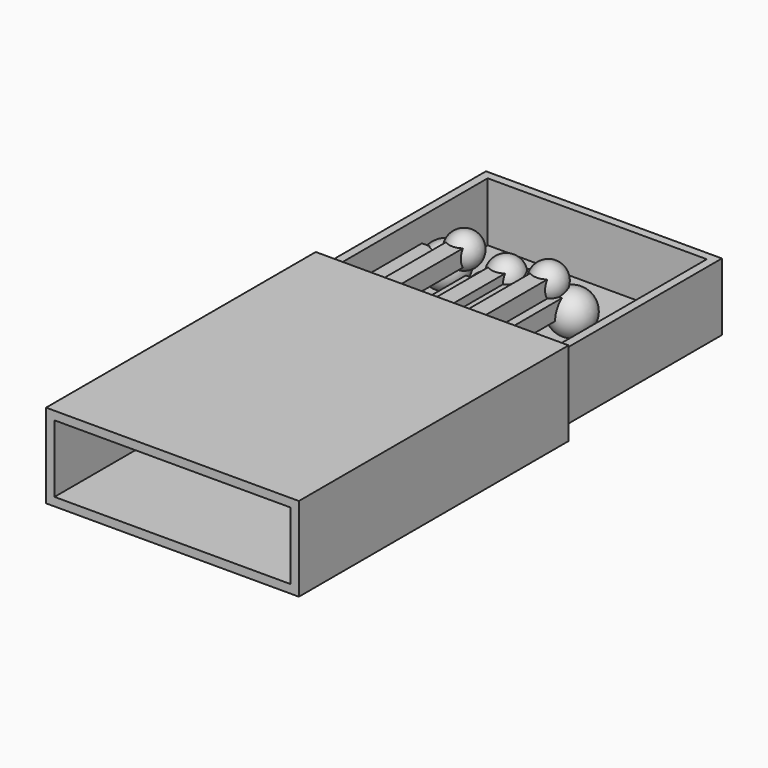
from build123d import *

# Parameters (mm, degrees)
BOX001_W     = 28
BOX001_H     = 40
BOX001_DEPTH = 8
BOX_W        = 30
BOX_H        = 40
BOX_DEPTH    = 10
BOX005_W     = 2
BOX005_H     = 25
BOX005_DEPTH = 2
BOX006_W     = 2
BOX006_H     = 25
BOX006_DEPTH = 2
BOX007_W     = 2
BOX007_H     = 25
BOX007_DEPTH = 2
BOX008_W     = 2
BOX008_H     = 25
BOX008_DEPTH = 2
BOX010_W     = 2
BOX010_H     = 25
BOX010_DEPTH = 2
BOX009_W     = 2
BOX009_H     = 25
BOX009_DEPTH = 2
BOX004_W     = 2
BOX004_H     = 25
BOX004_DEPTH = 2
BOX003_W     = 26
BOX003_H     = 38
BOX003_DEPTH = 7
BOX002_W     = 28
BOX002_H     = 40
BOX002_DEPTH = 8


with BuildPart() as box001:
    # Box001 → Box001 (new body)
    with BuildSketch(Plane(origin=(1, 1, 1), x_dir=(1, 0, 0), z_dir=(0, 0, 1))):
        with Locations((14, 20)):
            Rectangle(BOX001_W, BOX001_H)
    extrude(amount=BOX001_DEPTH)


with BuildPart() as cut:
    # Box → Box (new body)
    with BuildSketch(Plane(origin=(0, 1, 0), x_dir=(1, 0, 0), z_dir=(0, 0, 1))):
        with Locations((15, 20)):
            Rectangle(BOX_W, BOX_H)
    extrude(amount=BOX_DEPTH)

    # Cut: cut Box001
    add(box001.part, mode=Mode.SUBTRACT)


with BuildPart() as sphere001:
    # Sphere001 → Sphere001 (revolve)
    with BuildSketch(Plane(origin=(5, 54, 2), x_dir=(1, 0, 0), z_dir=(0, -1, 0))):
        with BuildLine():
            ThreePointArc((0, -2.5), (2.5, 0), (0, 2.5))
            Line((0, 2.5), (0, -2.5))
        make_face()
    revolve(axis=Axis((5, 54, 2), (0, 0, 1)))


with BuildPart() as fusion005:
    # Box005 → Box005 (new body)
    with BuildSketch(Plane(origin=(3, 28, 2), x_dir=(1, 0, 0), z_dir=(0, 0, 1))):
        with Locations((1, 12.5)):
            Rectangle(BOX005_W, BOX005_H)
    extrude(amount=BOX005_DEPTH)

    # Fusion005: union Sphere001
    add(sphere001.part)


with BuildPart() as fusion005_1:
    # Fusion005 placement: moved
    add(fusion005.part.moved(Location((6, 34, 2))))


with BuildPart() as sphere002:
    # Sphere002 → Sphere002 (revolve)
    with BuildSketch(Plane(origin=(5, 54, 2), x_dir=(1, 0, 0), z_dir=(0, -1, 0))):
        with BuildLine():
            ThreePointArc((0, -2.5), (2.5, 0), (0, 2.5))
            Line((0, 2.5), (0, -2.5))
        make_face()
    revolve(axis=Axis((5, 54, 2), (0, 0, 1)))


with BuildPart() as fusion006:
    # Box006 → Box006 (new body)
    with BuildSketch(Plane(origin=(3, 28, 2), x_dir=(1, 0, 0), z_dir=(0, 0, 1))):
        with Locations((1, 12.5)):
            Rectangle(BOX006_W, BOX006_H)
    extrude(amount=BOX006_DEPTH)

    # Fusion006: union Sphere002
    add(sphere002.part)


with BuildPart() as fusion006_1:
    # Fusion006 placement: moved
    add(fusion006.part.moved(Location((10, 35, 3))))


with BuildPart() as sphere003:
    # Sphere003 → Sphere003 (revolve)
    with BuildSketch(Plane(origin=(5, 54, 2), x_dir=(1, 0, 0), z_dir=(0, -1, 0))):
        with BuildLine():
            ThreePointArc((0, -2.5), (2.5, 0), (0, 2.5))
            Line((0, 2.5), (0, -2.5))
        make_face()
    revolve(axis=Axis((5, 54, 2), (0, 0, 1)))


with BuildPart() as fusion007:
    # Box007 → Box007 (new body)
    with BuildSketch(Plane(origin=(3, 28, 2), x_dir=(1, 0, 0), z_dir=(0, 0, 1))):
        with Locations((1, 12.5)):
            Rectangle(BOX007_W, BOX007_H)
    extrude(amount=BOX007_DEPTH)

    # Fusion007: union Sphere003
    add(sphere003.part)


with BuildPart() as fusion007_1:
    # Fusion007 placement: moved
    add(fusion007.part.moved(Location((15, 35, 3))))


with BuildPart() as sphere004:
    # Sphere004 → Sphere004 (revolve)
    with BuildSketch(Plane(origin=(4, 54, 3), x_dir=(1, 0, 0), z_dir=(0, -1, 0))):
        with BuildLine():
            ThreePointArc((0, -2), (2, 0), (0, 2))
            Line((0, 2), (0, -2))
        make_face()
    revolve(axis=Axis((4, 54, 3), (0, 0, 1)))


with BuildPart() as fusion008:
    # Box008 → Box008 (new body)
    with BuildSketch(Plane(origin=(3, 28, 2), x_dir=(1, 0, 0), z_dir=(0, 0, 1))):
        with Locations((1, 12.5)):
            Rectangle(BOX008_W, BOX008_H)
    extrude(amount=BOX008_DEPTH)

    # Fusion008: union Sphere004
    add(sphere004.part)


with BuildPart() as fusion008_1:
    # Fusion008 placement: moved
    add(fusion008.part.moved(Location((9, 34, 4))))


with BuildPart() as sphere006:
    # Sphere006 → Sphere006 (revolve)
    with BuildSketch(Plane(origin=(4, 54, 3), x_dir=(1, 0, 0), z_dir=(0, -1, 0))):
        with BuildLine():
            ThreePointArc((0, -2), (2, 0), (0, 2))
            Line((0, 2), (0, -2))
        make_face()
    revolve(axis=Axis((4, 54, 3), (0, 0, 1)))


with BuildPart() as fusion010:
    # Box010 → Box010 (new body)
    with BuildSketch(Plane(origin=(3, 28, 2), x_dir=(1, 0, 0), z_dir=(0, 0, 1))):
        with Locations((1, 12.5)):
            Rectangle(BOX010_W, BOX010_H)
    extrude(amount=BOX010_DEPTH)

    # Fusion010: union Sphere006
    add(sphere006.part)


with BuildPart() as fusion010_1:
    # Fusion010 placement: moved
    add(fusion010.part.moved(Location((14, 34, 5))))


with BuildPart() as sphere005:
    # Sphere005 → Sphere005 (revolve)
    with BuildSketch(Plane(origin=(4, 54, 3), x_dir=(1, 0, 0), z_dir=(0, -1, 0))):
        with BuildLine():
            ThreePointArc((0, -2), (2, 0), (0, 2))
            Line((0, 2), (0, -2))
        make_face()
    revolve(axis=Axis((4, 54, 3), (0, 0, 1)))


with BuildPart() as fusion009:
    # Box009 → Box009 (new body)
    with BuildSketch(Plane(origin=(3, 28, 2), x_dir=(1, 0, 0), z_dir=(0, 0, 1))):
        with Locations((1, 12.5)):
            Rectangle(BOX009_W, BOX009_H)
    extrude(amount=BOX009_DEPTH)

    # Fusion009: union Sphere005
    add(sphere005.part)


with BuildPart() as fusion009_1:
    # Fusion009 placement: moved
    add(fusion009.part.moved(Location((4, 34, 5))))


with BuildPart() as sphere:
    # Sphere → Sphere (revolve)
    with BuildSketch(Plane(origin=(5, 54, 2), x_dir=(1, 0, 0), z_dir=(0, -1, 0))):
        with BuildLine():
            ThreePointArc((0, -2.5), (2.5, 0), (0, 2.5))
            Line((0, 2.5), (0, -2.5))
        make_face()
    revolve(axis=Axis((5, 54, 2), (0, 0, 1)))


with BuildPart() as fusion:
    # Box004 → Box004 (new body)
    with BuildSketch(Plane(origin=(3, 28, 2), x_dir=(1, 0, 0), z_dir=(0, 0, 1))):
        with Locations((1, 12.5)):
            Rectangle(BOX004_W, BOX004_H)
    extrude(amount=BOX004_DEPTH)

    # Fusion: union Sphere
    add(sphere.part)


with BuildPart() as fusion_1:
    # Fusion placement: moved
    add(fusion.part.moved(Location((0, 1, 3))))


with BuildPart() as box003:
    # Box003 → Box003 (new body)
    with BuildSketch(Plane(origin=(2, 2, 2), x_dir=(1, 0, 0), z_dir=(0, 0, 1))):
        with Locations((13, 19)):
            Rectangle(BOX003_W, BOX003_H)
    extrude(amount=BOX003_DEPTH)


with BuildPart() as fusion011:
    # Box002 → Box002 (new body)
    with BuildSketch(Plane(origin=(1, 1, 1), x_dir=(1, 0, 0), z_dir=(0, 0, 1))):
        with Locations((14, 20)):
            Rectangle(BOX002_W, BOX002_H)
    extrude(amount=BOX002_DEPTH)

    # Cut001: cut Box003
    add(box003.part, mode=Mode.SUBTRACT)


with BuildPart() as fusion011_1:
    # Cut001 placement: moved
    add(fusion011.part.moved(Location((0, 25, 0))))

    # Fusion004: union Fusion
    add(fusion_1.part)


with BuildPart() as fusion011_2:
    # Fusion004 placement: moved
    add(fusion011_1.part.moved(Location((0, 34, 0))))

    # Fusion011: union Fusion005, Fusion006, Fusion007, Fusion008, Fusion010, Fusion009
    add(fusion005_1.part)
    add(fusion006_1.part)
    add(fusion007_1.part)
    add(fusion008_1.part)
    add(fusion010_1.part)
    add(fusion009_1.part)


with BuildPart() as fusion011_3:
    # Fusion011 placement: moved
    add(fusion011_2.part.moved(Location((0, -35, 0))))


solid = Compound([cut.part, fusion011_3.part])
